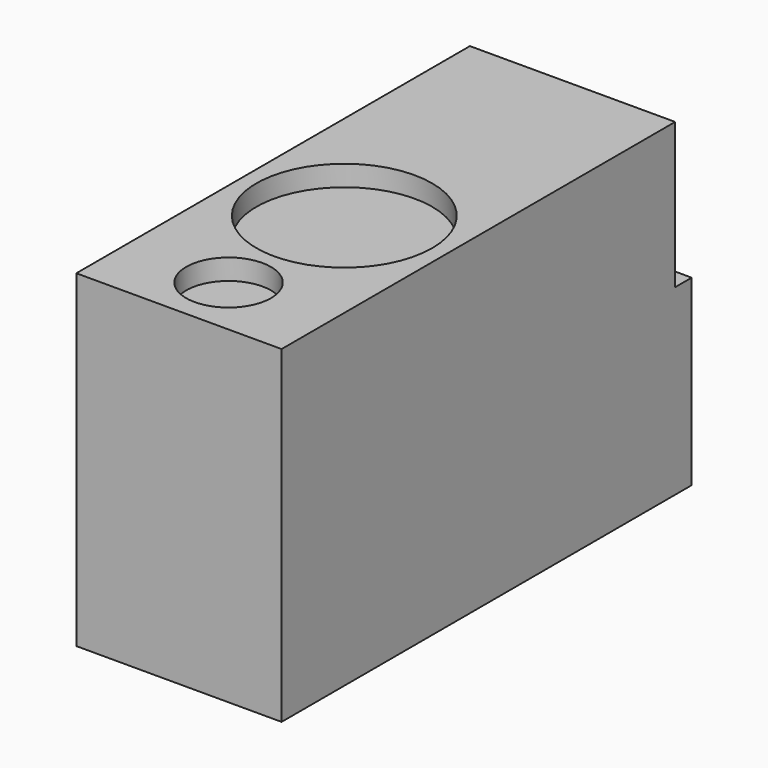
from build123d import *

# Parameters (mm, degrees)
F0_W     = 252.222
F0_H     = 403.352
F1_DEPTH = 629.92
F2_R     = 52.07
F2_R_2   = 107.95
F3_DEPTH = 25.4
F5_W     = 252.222
F5_H     = 25.4
F6_DEPTH = 178.816


with BuildPart() as f1:
    # F0 (on Front) → F1 (new body)
    with BuildSketch(Plane.XZ):
        with Locations((126.111, 201.676)):
            Rectangle(F0_W, F0_H)
    extrude(amount=F1_DEPTH)

    # F2 (on face) → F3 (cut)
    with BuildSketch(Plane.XY.offset(403.352)):
        with Locations((126.111, -553.72)):
            Circle(F2_R)
        with Locations((126.111, -375.92)):
            Circle(F2_R_2)
    extrude(amount=-F3_DEPTH, mode=Mode.SUBTRACT)

    # F5 (on face) → F6 (cut)
    with BuildSketch(Plane.XY.offset(403.352)):
        with Locations((126.111, -12.7)):
            Rectangle(F5_W, F5_H)
    extrude(amount=-F6_DEPTH, mode=Mode.SUBTRACT)


solid = f1.part
